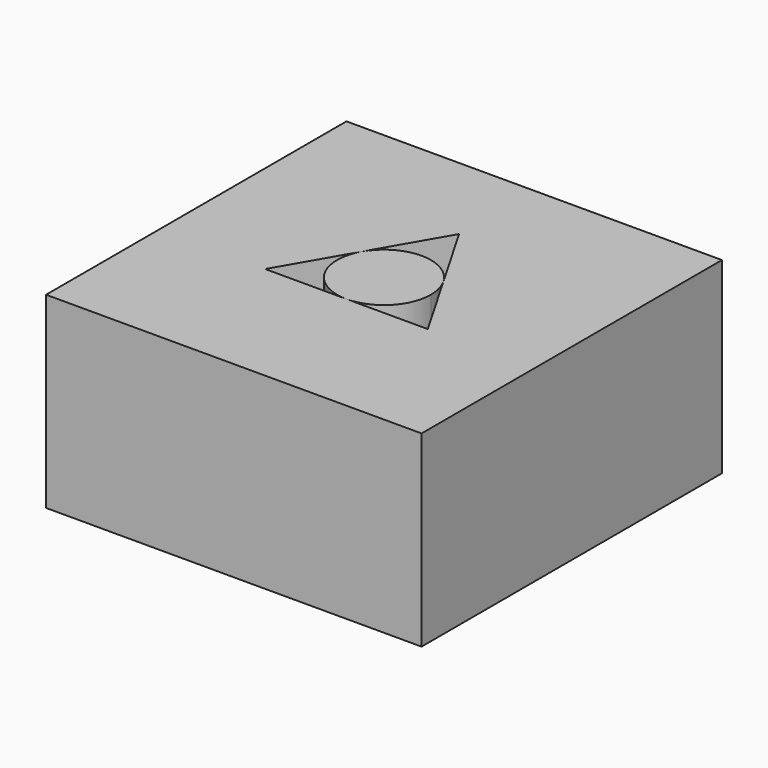
from build123d import *

# Parameters (mm, degrees)
F0_W     = 50.8
F0_H     = 50.8
F1_DEPTH = 25.4


with BuildPart() as f1:
    # F0 (on Top) → F1 (new body)
    with BuildSketch(Plane.XY):
        Rectangle(F0_W, F0_H)
        Polygon((0, 12.7), (5.499261, 3.175), (10.998523, -6.35), (0, -6.35), (-10.998523, -6.35), (-5.499261, 3.175), align=None, mode=Mode.SUBTRACT)
        with BuildLine():
            ThreePointArc((0, -6.35), (4.490128, -4.490128), (6.35, 0))
            ThreePointArc((6.35, 0), (6.133629, 1.643501), (5.499261, 3.175))
            ThreePointArc((5.499261, 3.175), (0, 6.35), (-5.499261, 3.175))
            ThreePointArc((-5.499261, 3.175), (-5.499261, -3.175), (0, -6.35))
        make_face()
    extrude(amount=F1_DEPTH)


solid = f1.part
